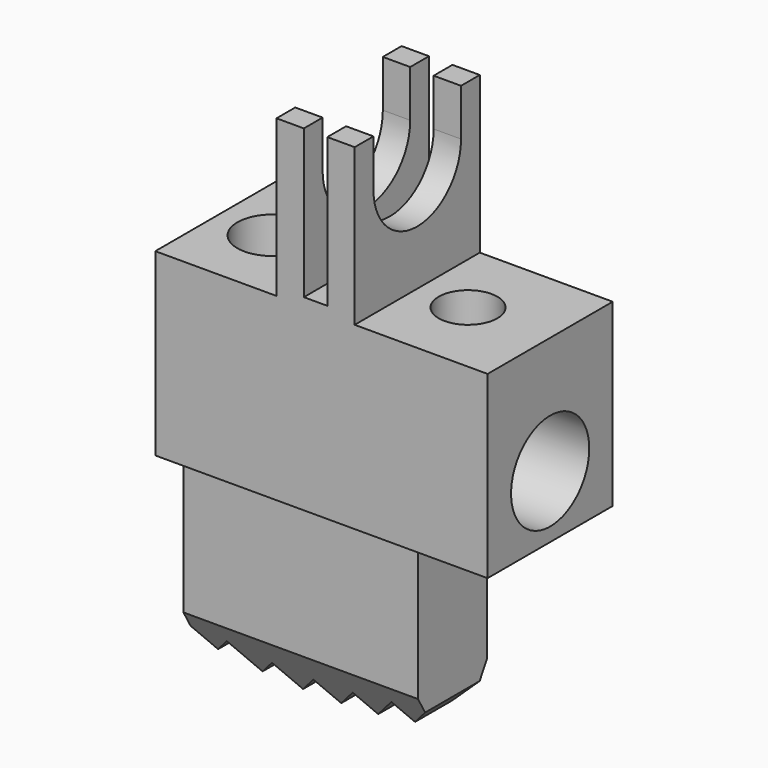
from build123d import *

# Parameters (mm, degrees)
F1_DEPTH    = 2
F0_W        = 6
F0_H        = 5.0999999046
F2_DEPTH    = 1.1
F3_W        = 2.7999999523
F3_H        = 0.2000000477
F4_DEPTH    = 2
F5_R        = 1.25
F6_DEPTH    = 8.5
F7_R        = 0.75
F8_DEPTH    = 3
F9_R        = 0.8999999762
F10_DEPTH   = 7.7
F11_SIZE2   = 0.692820323
F11_SIZE    = 1.2
F11_2_SIZE2 = 0.692820323
F11_2_SIZE  = 1.2
F13_DEPTH   = 12.5


with BuildPart() as f1:
    # F0 (on Front) → F1 (new body, symmetric)
    with BuildSketch(Plane.XZ):
        Polygon((-6, 5.0999999046), (0, 5.0999999046), (2.5, 5.0999999046), (2.5, 9.6999998093), (-0.9000000954, 9.6999998093), (-0.9000000954, 13.6999998093), (-1.6000000834, 13.6999998093), (-1.6000000834, 9.8999998569), (-2.2000001073, 9.8999998569), (-2.2000001073, 13.6999998093), (-2.9000000954, 13.6999998093), (-2.9000000954, 9.6999998093), (-6, 9.6999998093), align=None)
    extrude(amount=F1_DEPTH, both=True)

    # F0 (on Front) → F2 (join, symmetric)
    with BuildSketch(Plane.XZ):
        with Locations((-3, 2.5499999523)):
            Rectangle(F0_W, F0_H)
    extrude(amount=F2_DEPTH, both=True)

    # F3 (on face) → F4 (cut)
    with BuildSketch(Plane.YZ.offset(-0.9000000954)):
        with Locations((0, 13.7999998331)):
            Rectangle(F3_W, F3_H)
        with BuildLine():
            Line((-1.3999999762, 13.6999998093), (-1.3999999762, 12.4999998808))
            ThreePointArc((-1.3999999762, 12.4999998808), (0, 11.0999999046), (1.3999999762, 12.4999998808))
            Line((1.3999999762, 12.4999998808), (1.3999999762, 13.6999998093))
            Line((1.3999999762, 13.6999998093), (-1.3999999762, 13.6999998093))
        make_face()
    extrude(amount=-F4_DEPTH, mode=Mode.SUBTRACT)

    # F5 (on face) → F6 (cut)
    with BuildSketch(Plane.YZ.offset(2.5)):
        with Locations((0, 6.6999998093)):
            Circle(F5_R)
    extrude(amount=-F6_DEPTH, mode=Mode.SUBTRACT)

    # F7 (on face) → F8 (cut)
    with BuildSketch(Plane.XY.offset(9.6999998093)):
        with Locations((0.3999998569, 0)):
            Circle(F7_R)
    extrude(amount=-F8_DEPTH, mode=Mode.SUBTRACT)

    # F9 (on face) → F10 (cut)
    with BuildSketch(Plane.XY.offset(9.6999998093)):
        with Locations((-4.6000001431, 0)):
            Circle(F9_R)
    extrude(amount=-F10_DEPTH, mode=Mode.SUBTRACT)

    # F11
    f11_edges = [f1.edges().sort_by_distance(p)[0] for p in [
        (-3, -1.1, 0),
    ]]
    f11_side = f1.faces().sort_by_distance((-3, -1.1, 2.55))[0]
    chamfer(f11_edges, length=F11_SIZE, length2=F11_SIZE2, reference=f11_side)

    # F11#2
    f11_2_edges = [f1.edges().sort_by_distance(p)[0] for p in [
        (-3, 1.1, 0),
    ]]
    f11_2_side = f1.faces().sort_by_distance((-3, 1.1, 2.55))[0]
    chamfer(f11_2_edges, length=F11_2_SIZE, length2=F11_2_SIZE2, reference=f11_2_side)

    # F12 (on Front) → F13 (cut, symmetric)
    with BuildSketch(Plane.XZ):
        Polygon((-2.5119182901, 0.0119182901), (-3, 0.5), (-3.4880817099, 0.0119182901), (-4.0324307496, 0.5562673297), (-4.4787575401, 0.1099405392), (-5.1049532346, 0.7361362337), (-5.518700193, 0.3223892754), (-6, 0.8036890823), (-6, 0), (0, 0), (0, 0.8036890823), (-0.481299807, 0.3223892754), (-0.8950467654, 0.7361362337), (-1.5212424599, 0.1099405392), (-1.9675692504, 0.5562673297), align=None)
    extrude(amount=F13_DEPTH, both=True, mode=Mode.SUBTRACT)


solid = f1.part
